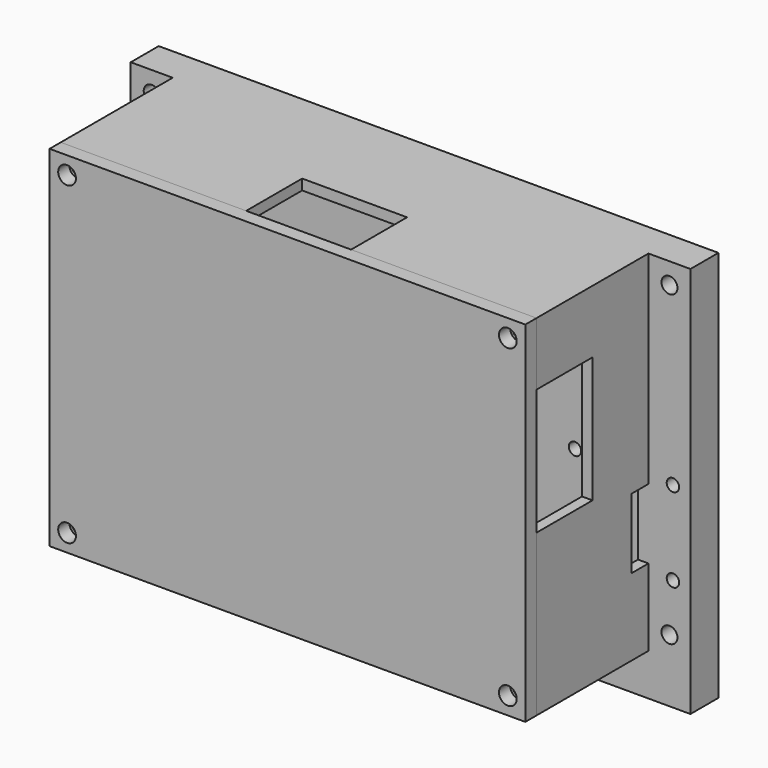
from build123d import *

# Parameters (mm, degrees)
F4_DEPTH  = 5
F5_W      = 65
F5_H      = 47
F7_DEPTH  = 25
F8_W      = 5
F8_H      = 20
F8_W_2    = 15
F8_H_2    = 5
F9_DEPTH  = 4
F6_W      = 5
F6_H      = 5
F10_DEPTH = 25
F11_W     = 4
F11_H     = 10
F11_W_2   = 10
F11_H_2   = 3
F12_DEPTH = 3
F13_W     = 15
F13_H     = 4
F13_W_2   = 4
F13_H_2   = 8
F13_H_3   = 18
F14_DEPTH = 10
F3_R      = 0.889
F3_R_2    = 1.143
F3_R_3    = 2.9
F15_DEPTH = 25.001
F16_W     = 10
F16_H     = 10
F17_DEPTH = 3.5
F18_W     = 68
F18_H     = 50
F18_R     = 1.27
F19_DEPTH = 2


with BuildPart() as f4:
    # F1 (on Front) → F4 (new body)
    with BuildSketch(Plane.XZ):
        Polygon((51.625, -32.5), (51.625, 17.5), (-28.375, 17.5), (-28.375, -32.5), (-28.375, -38.5), (51.625, -38.5), align=None)
    extrude(amount=F4_DEPTH)

    # F5 (on Front) → F7 (join)
    with BuildSketch(Plane.XZ):
        Polygon((45.625, 17.5), (-22.375, 17.5), (-22.375, -32.5), (45.625, -32.5), (45.625, -26.5), align=None)
        with Locations((11.625, -7.5)):
            Rectangle(F5_W, F5_H, mode=Mode.SUBTRACT)
    extrude(amount=F7_DEPTH)

    # F8 (on face) → F9 (cut)
    with BuildSketch(Plane.XZ.offset(5)):
        with Locations((-18.375, -16.5)):
            Rectangle(F8_W, F8_H)
        with Locations((1.625, -28.5)):
            Rectangle(F8_W_2, F8_H_2)
        with Locations((21.625, -28.5)):
            Rectangle(F8_W_2, F8_H_2)
        with Locations((41.625, -16.5)):
            Rectangle(F8_W, F8_H)
    extrude(amount=-F9_DEPTH, mode=Mode.SUBTRACT)

    # F6 (on Front) → F10 (join)
    with BuildSketch(Plane.XZ):
        with Locations((-19.875, 15)):
            Rectangle(F6_W, F6_H)
        with Locations((43.125, 15)):
            Rectangle(F6_W, F6_H)
        with Locations((-19.875, -30)):
            Rectangle(F6_W, F6_H)
        with Locations((43.125, -30)):
            Rectangle(F6_W, F6_H)
    extrude(amount=F10_DEPTH)

    # F11 (on face) → F12 (cut)
    with BuildSketch(Plane.XZ.offset(5)):
        with Locations((-21.875, -16.5)):
            Rectangle(F11_W, F11_H)
        with Locations((45.125, -16.5)):
            Rectangle(F11_W, F11_H)
        with Locations((21.625, -32.5)):
            Rectangle(F11_W_2, F11_H_2)
        with Locations((1.625, -32.5)):
            Rectangle(F11_W_2, F11_H_2)
    extrude(amount=F12_DEPTH, mode=Mode.SUBTRACT)

    # F13 (on face) → F14 (cut)
    with BuildSketch(Plane.XZ.offset(25)):
        with Locations((11.625, 15.5)):
            Rectangle(F13_W, F13_H)
        with Locations((-20.375, 27.5)):
            Rectangle(F13_W_2, F13_H_2)
        with Locations((-20.375, -0.5)):
            Rectangle(F13_W_2, F13_H_3)
        with Locations((43.625, 27.5)):
            Rectangle(F13_W_2, F13_H_2)
        with Locations((43.625, -0.5)):
            Rectangle(F13_W_2, F13_H_3)
    extrude(amount=-F14_DEPTH, mode=Mode.SUBTRACT)

    # F3 (on Front) → F15 (cut, through all)
    with BuildSketch(Plane.XZ):
        with Locations((-11.875, -10.5)):
            Circle(F3_R)
        with Locations((-25.875, -10.5)):
            Circle(F3_R)
        with Locations((-25.875, -22.5)):
            Circle(F3_R)
        with Locations((-11.875, -22.5)):
            Circle(F3_R)
        with Locations((-25.375, -29.5)):
            Circle(F3_R_2)
        with Locations((-25.375, 14.5)):
            Circle(F3_R_2)
        with Locations((48.625, 14.5)):
            Circle(F3_R_2)
        with Locations((35.125, -10.5)):
            Circle(F3_R)
        with Locations((35.125, -22.5)):
            Circle(F3_R)
        with Locations((49.125, -10.5)):
            Circle(F3_R)
        with Locations((49.125, -22.5)):
            Circle(F3_R)
        with Locations((48.625, -29.5)):
            Circle(F3_R_2)
        with Locations((-19.875, 15)):
            Circle(F3_R)
        with Locations((43.125, 15)):
            Circle(F3_R)
        with Locations((-19.875, -30)):
            Circle(F3_R)
        with Locations((-4.375, -22)):
            Circle(F3_R)
        with Locations((7.625, -22)):
            Circle(F3_R)
        with Locations((-4.375, -36)):
            Circle(F3_R)
        with Locations((7.625, -36)):
            Circle(F3_R)
        with Locations((15.625, -22)):
            Circle(F3_R)
        with Locations((27.625, -22)):
            Circle(F3_R)
        with Locations((27.625, -36)):
            Circle(F3_R)
        with Locations((15.625, -36)):
            Circle(F3_R)
        with Locations((43.125, -30)):
            Circle(F3_R)
        with Locations((-14.375, 9.5)):
            Circle(F3_R_3)
        with Locations((11.625, 11.5)):
            Circle(F3_R_2)
    extrude(amount=F15_DEPTH, mode=Mode.SUBTRACT)

    # F16 (on Front) → F17 (cut)
    with BuildSketch(Plane.XZ):
        with Locations((-14.375, 9.5)):
            Rectangle(F16_W, F16_H)
    extrude(amount=F17_DEPTH, mode=Mode.SUBTRACT)


with BuildPart() as f19:
    # F18 (on face) → F19 (new body)
    with BuildSketch(Plane.XZ.offset(25)):
        with Locations((11.625, -7.5)):
            Rectangle(F18_W, F18_H)
        with Locations((-19.875, -30)):
            Circle(F18_R, mode=Mode.SUBTRACT)
        with Locations((43.125, -30)):
            Circle(F18_R, mode=Mode.SUBTRACT)
        with Locations((-19.875, 15)):
            Circle(F18_R, mode=Mode.SUBTRACT)
        with Locations((43.125, 15)):
            Circle(F18_R, mode=Mode.SUBTRACT)
    extrude(amount=F19_DEPTH)


solid = Compound([f4.part, f19.part])
